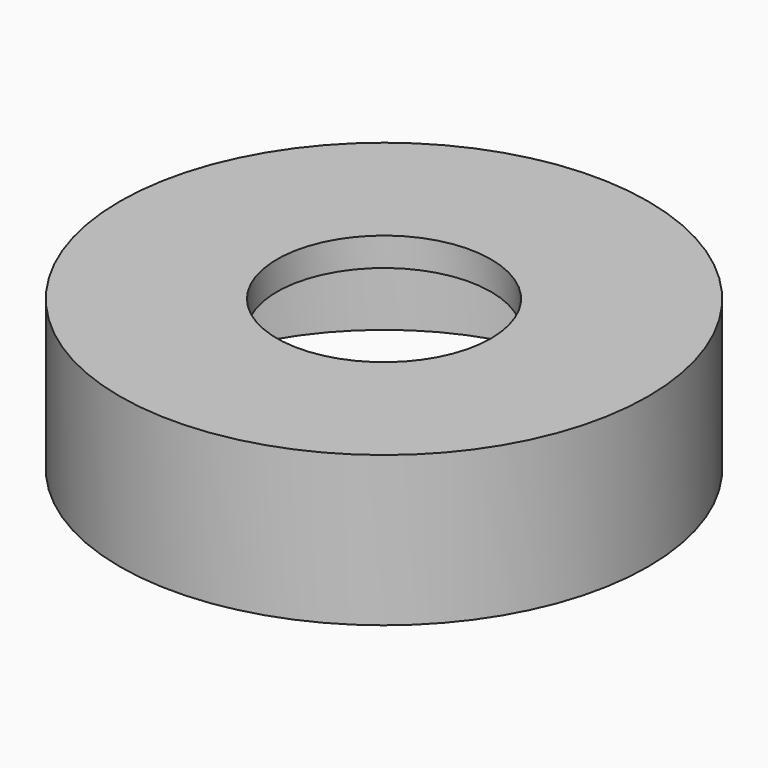
from build123d import *

# Parameters (mm, degrees)
F0_R     = 18.5
F1_DEPTH = 10.5
F2_T     = -2
F3_R     = 7.5
F4_DEPTH = 2


with BuildPart() as f1:
    # F0 (on Top) → F1 (new body)
    with BuildSketch(Plane.XY):
        Circle(F0_R)
    extrude(amount=F1_DEPTH)

    # F2
    f2_openings = [f1.faces().sort_by_distance(p)[0] for p in [
        (0, 0, 0),
    ]]
    offset(amount=F2_T, openings=f2_openings)

    # F3 (on face) → F4 (cut, through all)
    with BuildSketch(Plane.XY.offset(10.5)):
        Circle(F3_R)
    extrude(amount=-F4_DEPTH, mode=Mode.SUBTRACT)


solid = f1.part
